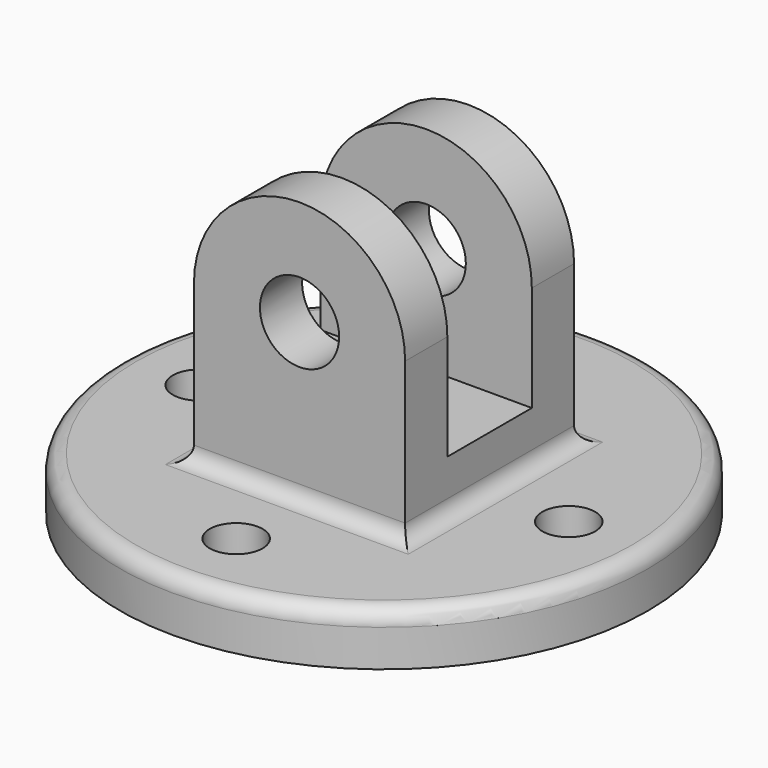
from build123d import *

# Parameters (mm, degrees)
F0_R     = 63.5
F1_DEPTH = 12.7
F2_R     = 6.35
F3_DEPTH = 12.701
F4_W     = 50.8
F4_H     = 38.1
F5_DEPTH = 25.4
F6_R     = 9.525
F7_DEPTH = 88.901
F8_W     = 25.4
F8_H     = 50.8
F9_DEPTH = 88.901
F10_R    = 3.81


with BuildPart() as f1:
    # F0 (on Top) → F1 (new body)
    with BuildSketch(Plane.XY):
        Circle(F0_R)
    extrude(amount=F1_DEPTH)

    # F2 (on face) → F3 (cut, through all)
    with BuildSketch(Plane.XY.offset(12.7)):
        with Locations((0, 44.45)):
            Circle(F2_R)
        with Locations((-44.45, 0)):
            Circle(F2_R)
        with Locations((0, -44.45)):
            Circle(F2_R)
        with Locations((44.45, 0)):
            Circle(F2_R)
    extrude(amount=-F3_DEPTH, mode=Mode.SUBTRACT)

    # F4 (on Front) → F5 (join, symmetric)
    with BuildSketch(Plane.XZ):
        with BuildLine():
            ThreePointArc((25.4, 50.8), (0, 76.2), (-25.4, 50.8))
            Line((-25.4, 50.8), (25.4, 50.8))
        make_face()
        with Locations((0, 31.75)):
            Rectangle(F4_W, F4_H)
    extrude(amount=F5_DEPTH, both=True)

    # F6 (on face) → F7 (cut, through all)
    with BuildSketch(Plane.XZ.offset(25.4)):
        with Locations((0, 50.8)):
            Circle(F6_R)
    extrude(amount=-F7_DEPTH, mode=Mode.SUBTRACT)

    # F8 (on face) → F9 (cut, through all)
    with BuildSketch(Plane(origin=(-25.4, 0, 0), x_dir=(0, -1, 0), z_dir=(-1, 0, 0))):
        with Locations((0, 50.8)):
            Rectangle(F8_W, F8_H)
    extrude(amount=-F9_DEPTH, mode=Mode.SUBTRACT)

    # F10
    f10_edges = [f1.edges().sort_by_distance(p)[0] for p in [
        (0, -25.4, 12.7),
        (25.4, 0, 12.7),
        (-63.5, 0, 12.7),
        (0, 25.4, 12.7),
        (-25.4, 0, 12.7),
    ]]
    fillet(f10_edges, radius=F10_R)


solid = f1.part
